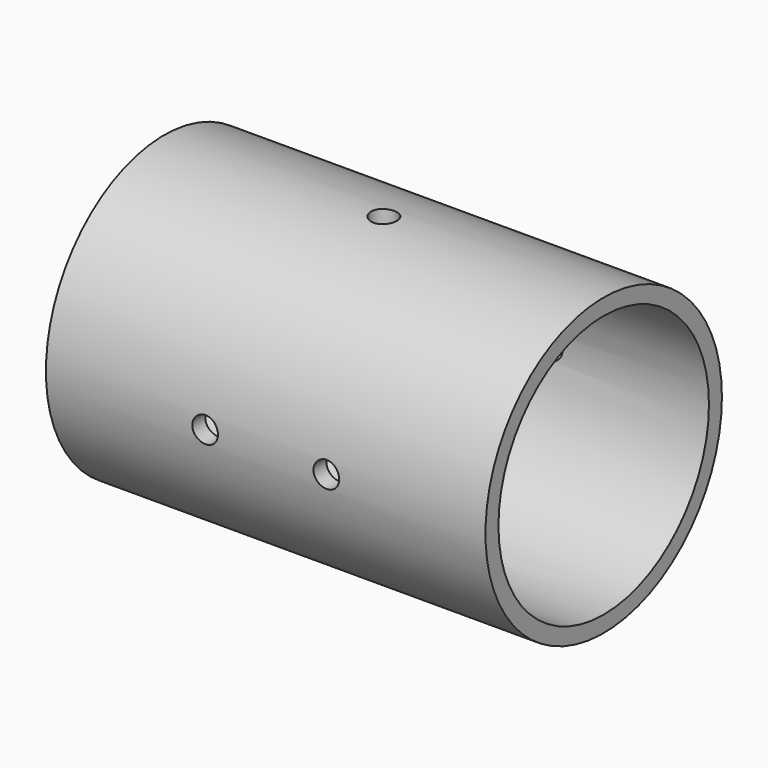
from build123d import *

# Parameters (mm, degrees)
F0_R          = 18.2753
F0_R_2        = 16.2687
F1_DEPTH      = 27.178
F2_R          = 1.5875
F3_DEPTH      = 18.2763
F3_DEPTH_BACK = 18.2763
F4_R          = 1.5875
F5_DEPTH      = 18.2763001
F5_DEPTH_BACK = 18.2763001


with BuildPart() as f1:
    # F0 (on Right) → F1 (new body, symmetric)
    with BuildSketch(Plane.YZ):
        Circle(F0_R)
        Circle(F0_R_2, mode=Mode.SUBTRACT)
    extrude(amount=F1_DEPTH, both=True)

    # F2 (on Top) → F3 (cut, two sides)
    with BuildSketch(Plane.XY) as f3_sk:
        Circle(F2_R)
    extrude(amount=-F3_DEPTH, mode=Mode.SUBTRACT)
    extrude(f3_sk.sketch, amount=F3_DEPTH_BACK, mode=Mode.SUBTRACT)

    # F4 (on Front) → F5 (cut, two sides)
    with BuildSketch(Plane.XZ) as f5_sk:
        with Locations((-7.493, 0)):
            Circle(F4_R)
        with Locations((7.493, 0)):
            Circle(F4_R)
    extrude(amount=-F5_DEPTH, mode=Mode.SUBTRACT)
    extrude(f5_sk.sketch, amount=F5_DEPTH_BACK, mode=Mode.SUBTRACT)


solid = f1.part
